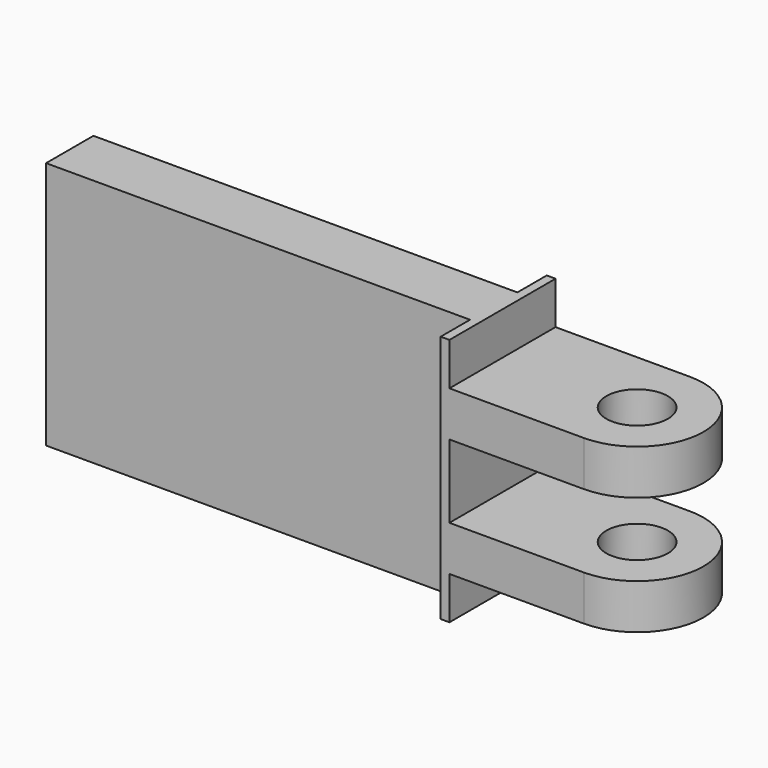
from build123d import *

# Parameters (mm, degrees)
F0_R     = 13
F1_DEPTH = 105
F3_DEPTH = 52.5


with BuildPart() as f1:
    # F0 (on Top) → F1 (new body)
    with BuildSketch(Plane.XY):
        with BuildLine():
            Line((447.4289454073, -28), (508, -28))
            ThreePointArc((508, -28), (536, 0), (508, 28))
            Line((508, 28), (447.4289454073, 28))
            Line((447.4289454073, 28), (447.4289454073, 12.5))
            Line((447.4289454073, 12.5), (218.8289454073, 12.5))
            Line((218.8289454073, 12.5), (218.8289454073, -12.5))
            Line((218.8289454073, -12.5), (447.4289454073, -12.5))
            Line((447.4289454073, -12.5), (447.4289454073, -28))
        make_face()
        with Locations((508, 0)):
            Circle(F0_R, mode=Mode.SUBTRACT)
    extrude(amount=F1_DEPTH)


with BuildPart() as f3:
    # F2 (on Front) → F3 (new body, symmetric)
    with BuildSketch(Plane.XZ):
        Polygon((268.3927469848, 105), (268.3927469848, 0), (451.1286479985, 0), (451.1286479985, 18), (537.2693231227, 18), (537.2693231227, 37), (451.1286479985, 37), (451.1286479985, 68), (537.2693231227, 68), (537.2693231227, 87), (451.1286479985, 87), (451.1286479985, 105), align=None)
    extrude(amount=F3_DEPTH, both=True)


with BuildPart() as f1_1:
    add(f1.part)

    # F4: intersect F3
    add(f3.part, mode=Mode.INTERSECT)


solid = f1_1.part
